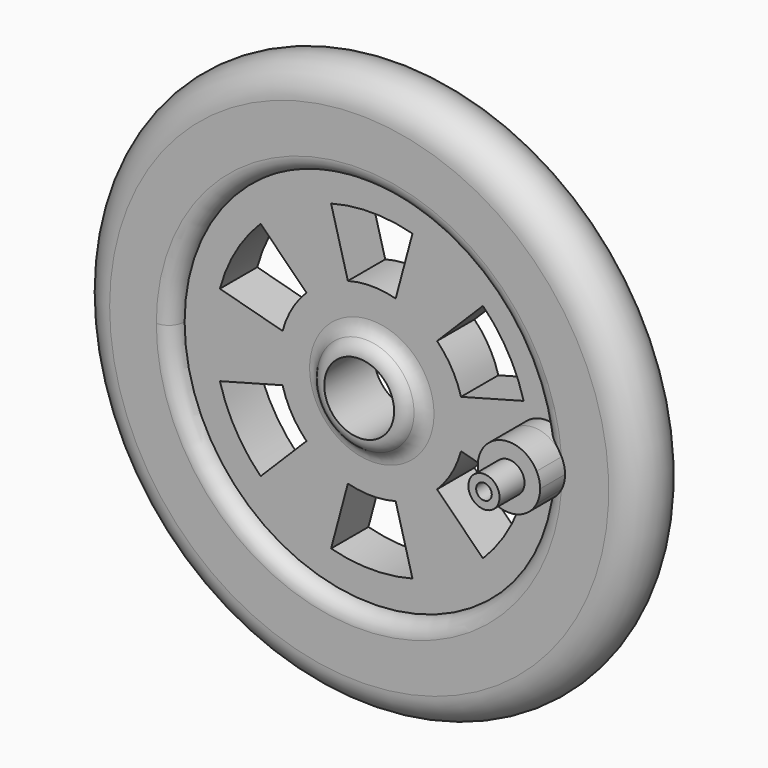
from build123d import *

# Parameters (mm, degrees)
F2_R      = 1.6002
F4_DEPTH  = 25.4
F5_DEPTH  = 25.4
F6_R      = 3.175
F7_DEPTH  = 5.08
F8_DEPTH  = 3.175
F9_R      = 1.5875
F10_DEPTH = 3.175
F12_D     = 1.5875
F12_DEPTH = 6.35
F12_TIP   = 0.4769331164


with BuildPart() as f1:
    # F0 (on Top) → F1 (revolve)
    with BuildSketch(Plane.XY):
        with BuildLine():
            Line((-3.556, -6.35), (-3.556, 0))
            Line((-3.556, 0), (-25.4, 0))
            ThreePointArc((-25.4, 0), (-28.575, -3.175), (-25.4, -6.35))
            Line((-25.4, -6.35), (-20.6502, -6.35))
            ThreePointArc((-20.6502, -6.35), (-21.7817122713, -3.6182877287), (-19.05, -4.7498))
            Line((-19.05, -4.7498), (-5.1562, -4.7498))
            ThreePointArc((-5.1562, -4.7498), (-4.6875122713, -5.8813122713), (-3.556, -6.35))
        make_face()
        with BuildLine():
            ThreePointArc((-19.05, -4.7498), (-21.7817122713, -3.6182877287), (-20.6502, -6.35))
            ThreePointArc((-20.6502, -6.35), (-19.5186877287, -5.8813122713), (-19.05, -4.7498))
        make_face()
    revolve(axis=Axis((0, -3.1282322016, 0), (0, -1, 0)))

    # F2
    f2_edges = [f1.edges().sort_by_distance(p)[0] for p in [
        (5.1562, -4.7498, 0),
    ]]
    fillet(f2_edges, radius=F2_R)

    # F3 (on face) → F4 (cut)
    with BuildSketch(Plane.XZ.offset(4.7498)):
        with BuildLine():
            ThreePointArc((-2.4323813859, 9.0777709155), (0, 9.398), (2.4323813859, 9.0777709155))
            Line((2.4323813859, 9.0777709155), (4.1416223597, 15.4567450723))
            ThreePointArc((4.1416223597, 15.4567450723), (0, 16.002), (-4.1416223597, 15.4567450723))
            Line((-4.1416223597, 15.4567450723), (-2.4323813859, 9.0777709155))
        make_face()
    extrude(amount=-F4_DEPTH, mode=Mode.SUBTRACT)

    # F3 (on face) → F5 (cut)
    with BuildSketch(Plane.XZ.offset(4.7498)):
        with BuildLine():
            ThreePointArc((-9.0777709155, 2.4323813859), (-8.1389067448, 4.699), (-6.6453895296, 6.6453895296))
            Line((-6.6453895296, 6.6453895296), (-11.3151227125, 11.3151227125))
            ThreePointArc((-11.3151227125, 11.3151227125), (-13.8581385114, 8.001), (-15.4567450723, 4.1416223597))
            Line((-15.4567450723, 4.1416223597), (-9.0777709155, 2.4323813859))
        make_face()
        with BuildLine():
            ThreePointArc((6.6453895296, 6.6453895296), (8.1389067448, 4.699), (9.0777709155, 2.4323813859))
            Line((9.0777709155, 2.4323813859), (15.4567450723, 4.1416223597))
            ThreePointArc((15.4567450723, 4.1416223597), (13.8581385114, 8.001), (11.3151227125, 11.3151227125))
            Line((11.3151227125, 11.3151227125), (6.6453895296, 6.6453895296))
        make_face()
        with BuildLine():
            ThreePointArc((9.0777709155, -2.4323813859), (8.1389067448, -4.699), (6.6453895296, -6.6453895296))
            Line((6.6453895296, -6.6453895296), (11.3151227125, -11.3151227125))
            ThreePointArc((11.3151227125, -11.3151227125), (13.8581385114, -8.001), (15.4567450723, -4.1416223597))
            Line((15.4567450723, -4.1416223597), (9.0777709155, -2.4323813859))
        make_face()
        with BuildLine():
            ThreePointArc((2.4323813859, -9.0777709155), (0, -9.398), (-2.4323813859, -9.0777709155))
            Line((-2.4323813859, -9.0777709155), (-4.1416223597, -15.4567450723))
            ThreePointArc((-4.1416223597, -15.4567450723), (0, -16.002), (4.1416223597, -15.4567450723))
            Line((4.1416223597, -15.4567450723), (2.4323813859, -9.0777709155))
        make_face()
        with BuildLine():
            ThreePointArc((-6.6453895296, -6.6453895296), (-8.1389067448, -4.699), (-9.0777709155, -2.4323813859))
            Line((-9.0777709155, -2.4323813859), (-15.4567450723, -4.1416223597))
            ThreePointArc((-15.4567450723, -4.1416223597), (-13.8581385114, -8.001), (-11.3151227125, -11.3151227125))
            Line((-11.3151227125, -11.3151227125), (-6.6453895296, -6.6453895296))
        make_face()
    extrude(amount=-F5_DEPTH, mode=Mode.SUBTRACT)

    # F6 (on face) → F7 (join)
    with BuildSketch(Plane.XZ.offset(6.35)):
        with Locations((17.78, 0)):
            Circle(F6_R)
    extrude(amount=-F7_DEPTH)

    # F6 (on face) → F8 (join)
    with BuildSketch(Plane.XZ.offset(6.35)):
        with BuildLine():
            ThreePointArc((20.6502, 0), (20.6372419344, 0.7314406207), (20.598384, 1.4619632788))
            ThreePointArc((20.598384, 1.4619632788), (14.605, 0), (20.598384, -1.4619632788))
            ThreePointArc((20.598384, -1.4619632788), (20.6372419344, -0.7314406207), (20.6502, 0))
        make_face()
        with BuildLine():
            ThreePointArc((20.598384, -1.4619632788), (20.8645578451, -0.7524147128), (20.955, 0))
            ThreePointArc((20.955, 0), (20.8645578451, 0.7524147128), (20.598384, 1.4619632788))
            ThreePointArc((20.598384, 1.4619632788), (20.6372419344, 0.7314406207), (20.6502, 0))
            ThreePointArc((20.6502, 0), (20.6372419344, -0.7314406207), (20.598384, -1.4619632788))
        make_face()
    extrude(amount=F8_DEPTH)

    # F9 (on face) → F10 (join)
    with BuildSketch(Plane.XZ.offset(9.525)):
        with Locations((17.78, 0)):
            Circle(F9_R)
    extrude(amount=F10_DEPTH)

    # F12
    with Locations(Plane.XZ.offset(12.7)):
        with Locations((17.78, 0)):
            Hole(F12_D / 2, depth=F12_DEPTH)
            with Locations((0, 0, -(F12_DEPTH + F12_TIP / 2))):  # 118° drill point
                Cone(0, F12_D / 2, F12_TIP, mode=Mode.SUBTRACT)


solid = f1.part
